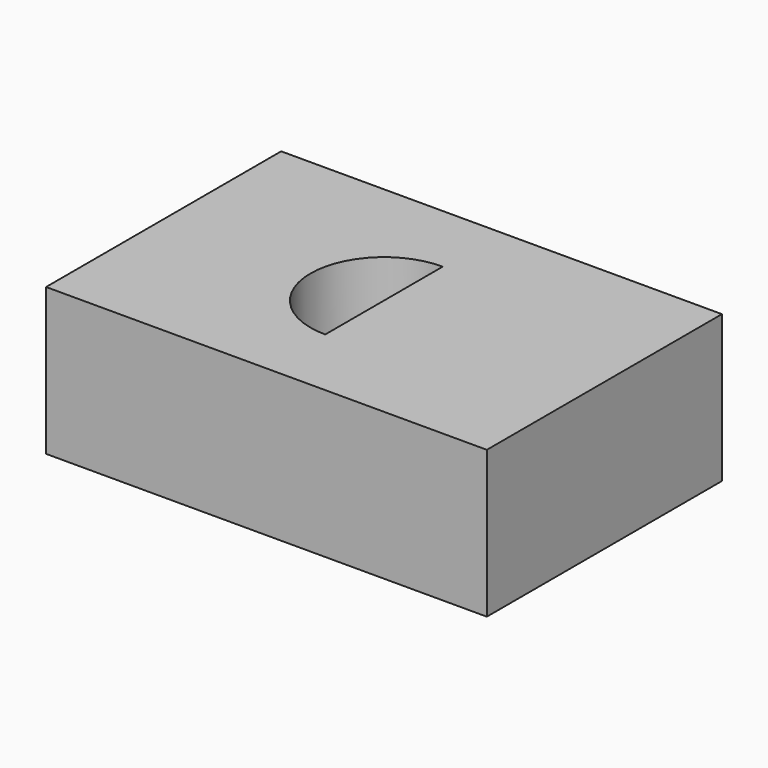
from build123d import *

# Parameters (mm, degrees)
F1_W     = 38.1
F1_H     = 10.1747748718
F2_DEPTH = 25.4


with BuildPart() as f2:
    # F1 (on face) → F2 (new body)
    with BuildSketch(Plane.XY):
        with Locations((19.05, -20.3126125641)):
            Rectangle(F1_W, F1_H)
    extrude(amount=F2_DEPTH)


with BuildPart() as f2b:
    # F0 (on Top) → F2, piece 2 (new body)
    with BuildSketch(Plane.XY):
        with BuildLine():
            Line((-38.1, -25.4), (0, -25.4))
            Line((0, -25.4), (0, -12.7))
            ThreePointArc((0, -12.7), (-12.7, 0), (0, 12.7))
            Line((0, 12.7), (0, 25.4))
            Line((0, 25.4), (-38.1, 25.4))
            Line((-38.1, 25.4), (-38.1, -25.4))
        make_face()
        with BuildLine():
            Line((0, -12.7), (0, -25.4))
            Line((0, -25.4), (38.1, -25.4))
            Line((38.1, -25.4), (38.1, 25.4))
            Line((38.1, 25.4), (0, 25.4))
            Line((0, 25.4), (0, 12.7))
            ThreePointArc((0, 12.7), (8.9802561211, 8.9802561211), (12.7, 0))
            ThreePointArc((12.7, 0), (8.9802561211, -8.9802561211), (0, -12.7))
        make_face()
        with BuildLine():
            Line((0, 12.7), (0, -12.7))
            ThreePointArc((0, -12.7), (8.9802561211, -8.9802561211), (12.7, 0))
            ThreePointArc((12.7, 0), (8.9802561211, 8.9802561211), (0, 12.7))
        make_face()
    extrude(amount=F2_DEPTH)


solid = Compound([f2.part, f2b.part])
